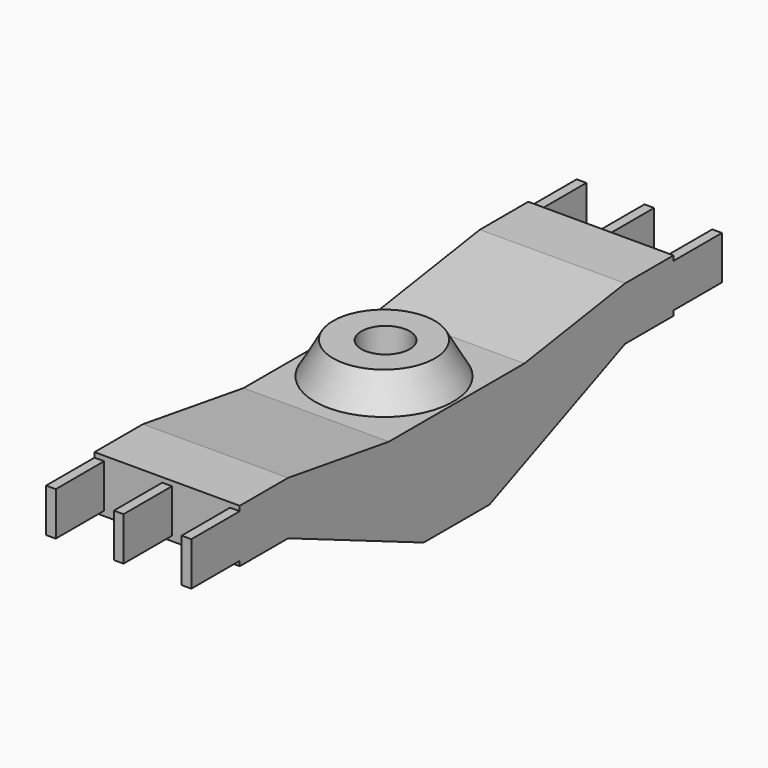
from build123d import *

# Parameters (mm, degrees)
CYLINDER_R                 = 2.5
CYLINDER_DEPTH             = 6
EXTRUDE024_DEPTH           = 6
EXTRUDE024_PLACEMENT_ANGLE = 90
EXTRUDE023_DEPTH           = 1
EXTRUDE023_PLACEMENT_ANGLE = 90
EXTRUDE025_DEPTH           = 6
EXTRUDE025_PLACEMENT_ANGLE = 90
EXTRUDE_DEPTH              = 1
EXTRUDE_PLACEMENT_ANGLE    = 90
REVOLVE_PLACEMENT_ANGLE    = 90
EXTRUDE022_DEPTH           = 1
EXTRUDE022_PLACEMENT_ANGLE = 90


with BuildPart() as cylinder:
    # Cylinder → Cylinder (new body)
    with BuildSketch(Plane(origin=(42.4, -33.3, -0.5), x_dir=(1, 0, 0), z_dir=(0, 0, 1))):
        Circle(CYLINDER_R)
    extrude(amount=CYLINDER_DEPTH)


with BuildPart() as extrude024:
    # Sketch016 → Extrude024 (new body)
    with BuildSketch(Plane.YZ):
        Polygon((5.5, -12.57), (3.5, -25.57), (3.5, -43.07), (5.5, -56.07), (5.5, -62.32), (0, -62.32), (0, -56.07), (-7.5, -38.57), (-7.5, -30.07), (0, -12.57), (0, -6.32), (5.5, -6.32), align=None)
    extrude(amount=EXTRUDE024_DEPTH)


with BuildPart() as extrude024_1:
    # Extrude024 placement: moved
    add(extrude024.part.moved(Location((35.7, -67.57, -2.3))).rotate(Axis((35.7, -67.57, -2.3), (1, 0, 0)), EXTRUDE024_PLACEMENT_ANGLE))


with BuildPart() as extrude023:
    # Sketch002 → Extrude023 (new body)
    with BuildSketch(Plane.XY):
        Polygon((5.5, -12.5), (3.5, -25.5), (3.5, -43), (5.5, -56), (5.5, -62.25), (5, -62.25), (5, -68.5), (0.5, -68.5), (0.5, -62.25), (0, -62.25), (0, -56), (-7.5, -38.5), (-7.5, -30), (0, -12.5), (0, -6.25), (0.5, -6.25), (0.5, 0), (5, 0), (5, -6.25), (5.5, -6.25), align=None)
    extrude(amount=EXTRUDE023_DEPTH)


with BuildPart() as extrude023_1:
    # Extrude023 placement: moved
    add(extrude023.part.moved(Location((42.7, 1, -2.3))).rotate(Axis((42.7, 1, -2.3), (0, -1, 0)), EXTRUDE023_PLACEMENT_ANGLE))


with BuildPart() as extrude025:
    # Sketch016 → Extrude025 (new body)
    with BuildSketch(Plane.YZ):
        Polygon((5.5, -12.57), (3.5, -25.57), (3.5, -43.07), (5.5, -56.07), (5.5, -62.32), (0, -62.32), (0, -56.07), (-7.5, -38.57), (-7.5, -30.07), (0, -12.57), (0, -6.32), (5.5, -6.32), align=None)
    extrude(amount=EXTRUDE025_DEPTH)


with BuildPart() as extrude025_1:
    # Extrude025 placement: moved
    add(extrude025.part.moved(Location((42.7, -67.57, -2.3))).rotate(Axis((42.7, -67.57, -2.3), (1, 0, 0)), EXTRUDE025_PLACEMENT_ANGLE))


with BuildPart() as extrude_body:
    # Sketch002 → Extrude (new body)
    with BuildSketch(Plane.XY):
        Polygon((5.5, -12.5), (3.5, -25.5), (3.5, -43), (5.5, -56), (5.5, -62.25), (5, -62.25), (5, -68.5), (0.5, -68.5), (0.5, -62.25), (0, -62.25), (0, -56), (-7.5, -38.5), (-7.5, -30), (0, -12.5), (0, -6.25), (0.5, -6.25), (0.5, 0), (5, 0), (5, -6.25), (5.5, -6.25), align=None)
    extrude(amount=EXTRUDE_DEPTH)


with BuildPart() as extrude_body_1:
    # Extrude placement: moved
    add(extrude_body.part.moved(Location((49.7, 1, -2.3))).rotate(Axis((49.7, 1, -2.3), (0, -1, 0)), EXTRUDE_PLACEMENT_ANGLE))


with BuildPart() as revolve_body:
    # Sketch003 → Revolve (revolve)
    with BuildSketch(Plane.XZ):
        Polygon((1.919868, -28.090362), (1.919868, -35.340362), (5.419868, -35.340362), (5.419868, -30.090362), align=None)
    revolve(axis=Axis((5.419868, 0, -35.340362), (1, 0, 0)))


with BuildPart() as revolve_body_1:
    # Revolve placement: moved
    add(revolve_body.part.moved(Location((6.9, -33.3, -0.9))).rotate(Axis((6.9, -33.3, -0.9), (0, -1, 0)), REVOLVE_PLACEMENT_ANGLE))


with BuildPart() as obj1:
    # Sketch002 → Extrude022 (new body)
    with BuildSketch(Plane.XY):
        Polygon((5.5, -12.5), (3.5, -25.5), (3.5, -43), (5.5, -56), (5.5, -62.25), (5, -62.25), (5, -68.5), (0.5, -68.5), (0.5, -62.25), (0, -62.25), (0, -56), (-7.5, -38.5), (-7.5, -30), (0, -12.5), (0, -6.25), (0.5, -6.25), (0.5, 0), (5, 0), (5, -6.25), (5.5, -6.25), align=None)
    extrude(amount=EXTRUDE022_DEPTH)


with BuildPart() as obj1_1:
    # Extrude022 placement: moved
    add(obj1.part.moved(Location((35.7, 1, -2.3))).rotate(Axis((35.7, 1, -2.3), (0, -1, 0)), EXTRUDE022_PLACEMENT_ANGLE))

    # Fusion: union Revolve body
    add(revolve_body_1.part)

    # Fusion057: union Extrude024, Extrude023, Extrude025, Extrude body
    add(extrude024_1.part)
    add(extrude023_1.part)
    add(extrude025_1.part)
    add(extrude_body_1.part)

    # Cut064: cut Cylinder
    add(cylinder.part, mode=Mode.SUBTRACT)


with BuildPart() as obj1_2:
    # Cut064 placement: moved
    add(obj1_1.part.moved(Location((0, 1.5, 0))))


solid = obj1_2.part
